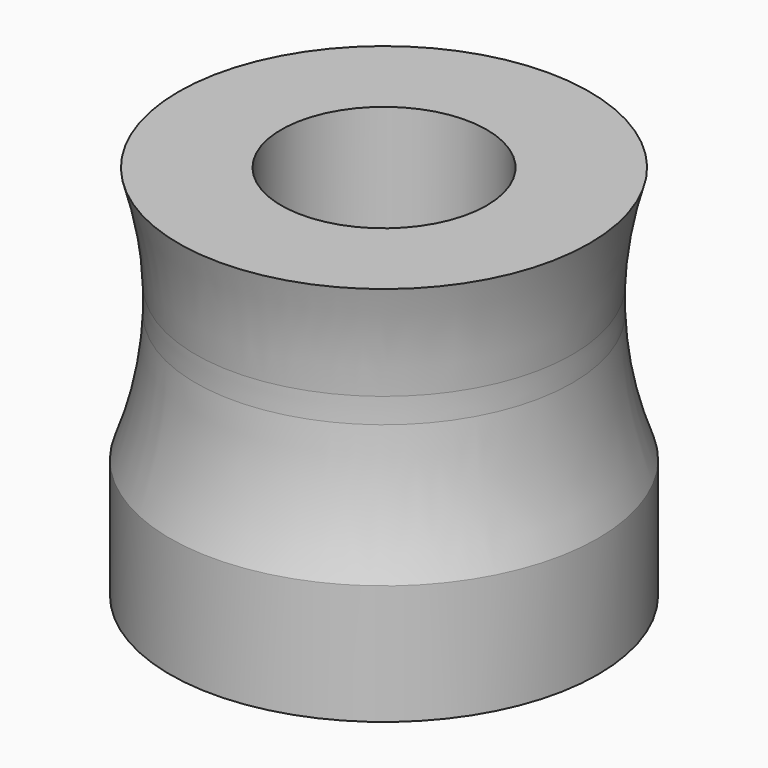
from build123d import *


with BuildPart() as f1:
    # F0 (on Front) → F1 (revolve)
    with BuildSketch(Plane.XZ):
        with BuildLine():
            Line((3, 11), (3, 0))
            Line((3, 0), (6.25, 0))
            Line((6.25, 0), (6.25, 3.5))
            ThreePointArc((6.25, 3.5), (5.719137, 5.343827), (5.5, 7.25))
            ThreePointArc((5.5, 7.25), (5.494247, 7.615), (5.5, 7.98))
            Line((5.5, 7.98), (5.5, 11))
            Line((5.5, 11), (3, 11))
        make_face()
        with BuildLine():
            Line((6, 11), (5.5, 11))
            Line((5.5, 11), (5.5, 7.98))
            ThreePointArc((5.5, 7.98), (5.649777, 9.506593), (6, 11))
        make_face()
    revolve(axis=Axis((0, 0, 5.5), (0, 0, 1)))


solid = f1.part
